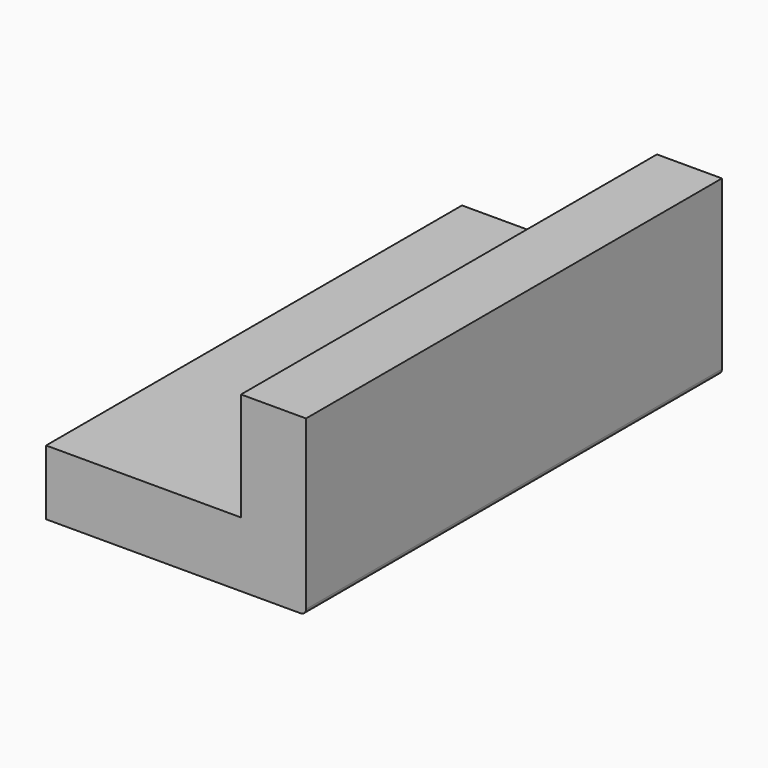
from build123d import *

# Parameters (mm, degrees)
F0_W     = 57.15
F0_H     = 19.05
F1_DEPTH = 152.4


with BuildPart() as f1:
    # F0 (on Front) → F1 (new body)
    with BuildSketch(Plane.XZ):
        with Locations((-9.525, -15.875)):
            Rectangle(F0_W, F0_H)
        with BuildLine():
            ThreePointArc((36.5125, -25.4), (37.635032, -24.935032), (38.1, -23.8125))
            Line((38.1, -23.8125), (38.1, 25.4))
            Line((38.1, 25.4), (19.05, 25.4))
            Line((19.05, 25.4), (19.05, -6.35))
            Line((19.05, -6.35), (19.05, -25.4))
            Line((19.05, -25.4), (36.5125, -25.4))
        make_face()
    extrude(amount=F1_DEPTH)


solid = f1.part
